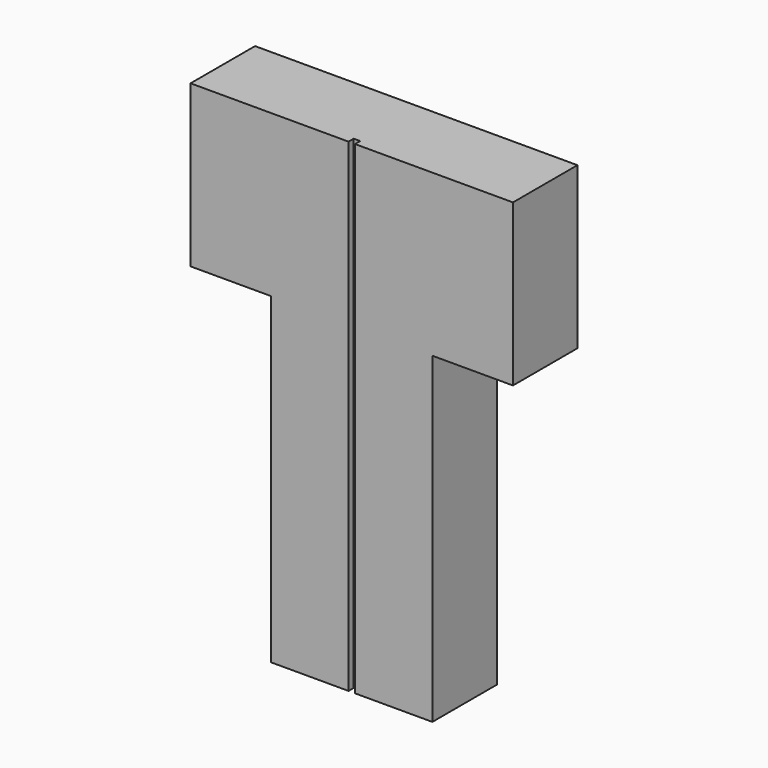
from build123d import *

# Parameters (mm, degrees)
F1_DEPTH = 5
F2_W     = 0.4
F2_H     = 40
F3_DEPTH = 0.4


with BuildPart() as f1:
    # F0 (on Front) → F1 (new body)
    with BuildSketch(Plane.XZ):
        Polygon((-5, -10), (5, -10), (5, 10), (10, 10), (10, 20), (-10, 20), (-10, 10), (-5, 10), align=None)
    extrude(amount=F1_DEPTH)

    # F2 (on face) → F3 (cut)
    with BuildSketch(Plane.XZ.offset(5)):
        Rectangle(F2_W, F2_H)
    extrude(amount=-F3_DEPTH, mode=Mode.SUBTRACT)


solid = f1.part
